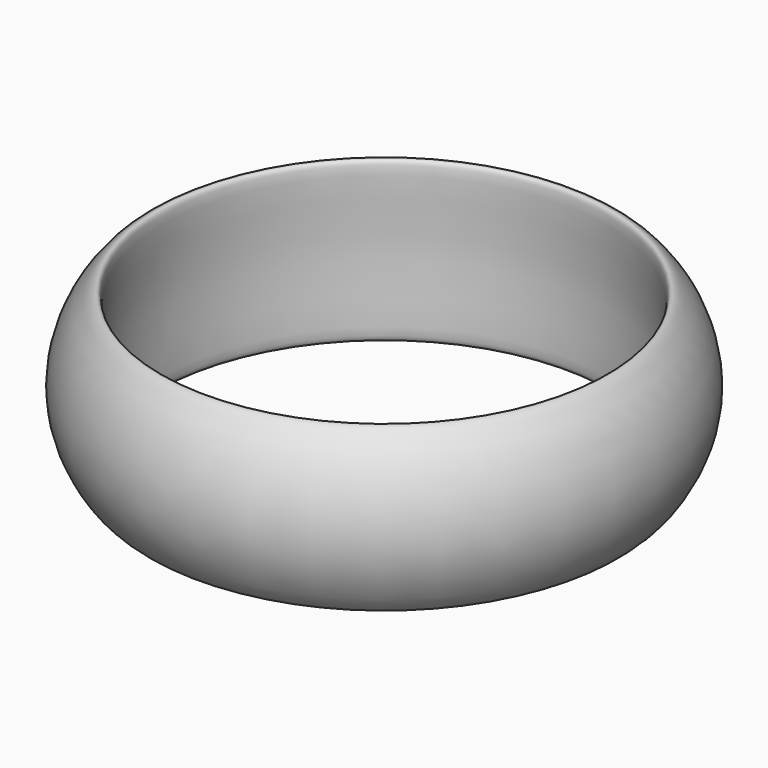
from build123d import *


with BuildPart() as f1:
    # F0 (on Front) → F1 (revolve)
    with BuildSketch(Plane.XZ):
        with BuildLine():
            add(Edge.make_bspline(
                [(-39.6541208029, -12.6329027116), (-38.1761298198, -12.1411985934), (-40.3943540424, 1.8910180395), (-36.792740804, 19.5230204519), (-45.6481877834, 9.4807243846), (-47.3429158485, -4.244935098), (-40.8338097947, -13.0253664967), (-39.6541208029, -12.6329027116)],
                knots=[0, 0, 0, 0, 0.2220450551, 0.4377951379, 0.593518256, 0.8227701588, 1, 1, 1, 1], degree=3))
        make_face()
    revolve(axis=Axis((0, 0, 0.8099693805), (0, 0, 1)))


solid = f1.part
